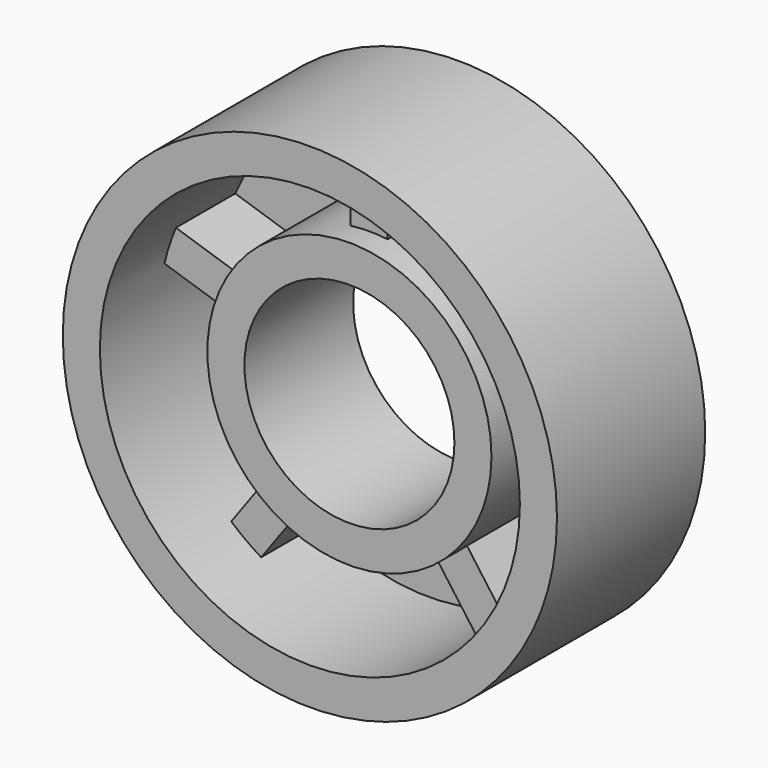
from build123d import *

# Parameters (mm, degrees)
SKETCH_R           = 20
SKETCH_R_2         = 8.5
PAD_DEPTH          = 15
SKETCH001_R        = 17
SKETCH001_R_2      = 11.5
POCKET_DEPTH       = 12.001
SKETCH002_W        = 3
SKETCH002_H        = 8.150041
PAD001_DEPTH       = 6
POLARPATTERN_COUNT = 5
SKETCH003_R        = 11.5
POCKET001_DEPTH    = 4.001


with BuildPart() as part:
    # Sketch → Pad (new body)
    with BuildSketch(Plane.XZ):
        Circle(SKETCH_R)
        Circle(SKETCH_R_2, mode=Mode.SUBTRACT)
    extrude(amount=PAD_DEPTH)

    # Sketch001 → Pocket (cut, through all)
    with BuildSketch(Plane.XZ.offset(3)):
        Circle(SKETCH001_R)
        Circle(SKETCH001_R_2, mode=Mode.SUBTRACT)
    extrude(amount=POCKET_DEPTH, mode=Mode.SUBTRACT)

    # Sketch002 → Pad001 (join)
    with BuildSketch(Plane.XZ.offset(3)):
        with Locations((0, 14.096249)):
            Rectangle(SKETCH002_W, SKETCH002_H)
    pad001 = extrude(amount=PAD001_DEPTH)

    # PolarPattern: Pad001 ×5 about axis
    polarpattern_axis = Axis((0, -3, 0), (0, -1, 0))
    for i in range(1, POLARPATTERN_COUNT):
        add(pad001.rotate(polarpattern_axis, i * 360 / POLARPATTERN_COUNT))

    # Sketch003 → Pocket001 (cut, through all)
    with BuildSketch(Plane.XZ.offset(11)):
        Circle(SKETCH003_R)
    extrude(amount=POCKET001_DEPTH, mode=Mode.SUBTRACT)


solid = part.part
